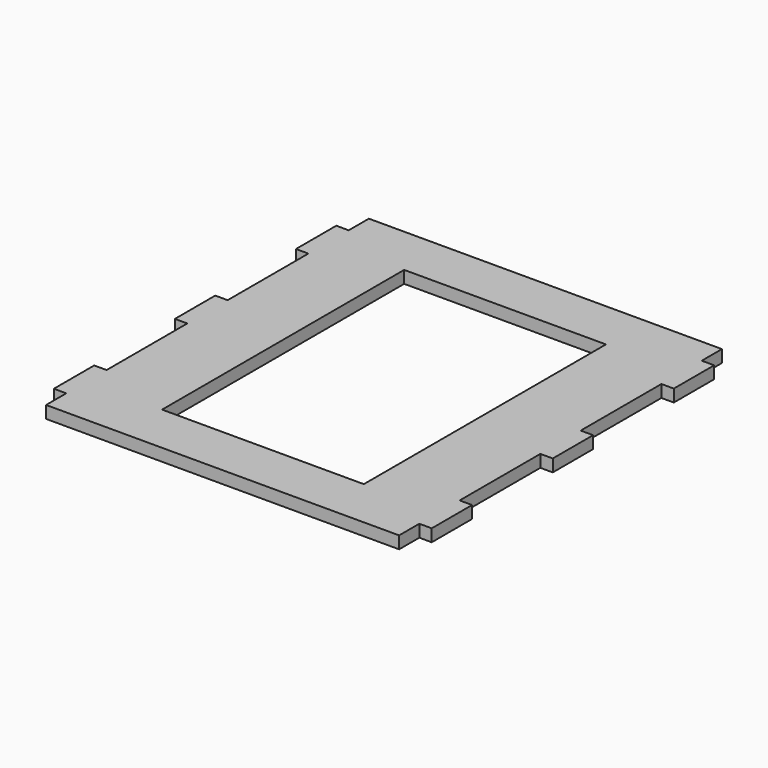
from build123d import *

# Parameters (mm, degrees)
F0_W     = 50.8
F0_H     = 76.2
F1_DEPTH = 3.0988


with BuildPart() as f1:
    # F0 (on Top) → F1 (new body)
    with BuildSketch(Plane.XY):
        Polygon((44.45, 50.8), (-44.45, 50.8), (-44.45, 44.45), (-47.5742, 44.45), (-47.5742, 31.75), (-44.45, 31.75), (-44.45, 6.35), (-47.5742, 6.35), (-47.5742, -6.35), (-44.45, -6.35), (-44.45, -31.75), (-47.5742, -31.75), (-47.5742, -44.45), (-44.45, -44.45), (-44.45, -50.8), (44.45, -50.8), (44.45, -44.45), (47.5742, -44.45), (47.5742, -31.75), (44.45, -31.75), (44.45, -6.35), (47.5742, -6.35), (47.5742, 6.35), (44.45, 6.35), (44.45, 31.75), (47.5742, 31.75), (47.5742, 44.45), (44.45, 44.45), align=None)
        Rectangle(F0_W, F0_H, mode=Mode.SUBTRACT)
    extrude(amount=F1_DEPTH)


solid = f1.part
